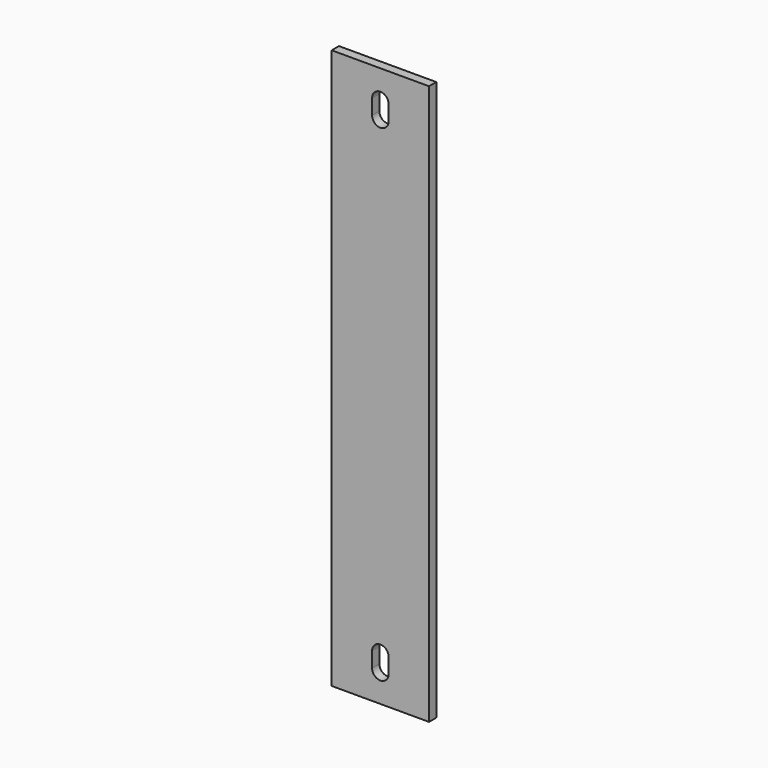
from build123d import *

# Parameters (mm, degrees)
F0_W     = 50.8
F0_H     = 292.1
F1_DEPTH = 4.7625


with BuildPart() as f1:
    # F0 (on Front) → F1 (new body)
    with BuildSketch(Plane.XZ):
        with Locations((25.4, 146.05)):
            Rectangle(F0_W, F0_H)
        with BuildLine():
            ThreePointArc((29.718, 15.08125), (25.4, 10.76325), (21.082, 15.08125))
            Line((21.082, 15.08125), (21.082, 23.01875))
            ThreePointArc((21.082, 23.01875), (25.4, 27.33675), (29.718, 23.01875))
            Line((29.718, 23.01875), (29.718, 15.08125))
        make_face(mode=Mode.SUBTRACT)
        with BuildLine():
            ThreePointArc((29.718, 269.08125), (25.4, 264.76325), (21.082, 269.08125))
            Line((21.082, 269.08125), (21.082, 277.01875))
            ThreePointArc((21.082, 277.01875), (25.4, 281.33675), (29.718, 277.01875))
            Line((29.718, 277.01875), (29.718, 269.08125))
        make_face(mode=Mode.SUBTRACT)
    extrude(amount=F1_DEPTH)


solid = f1.part
